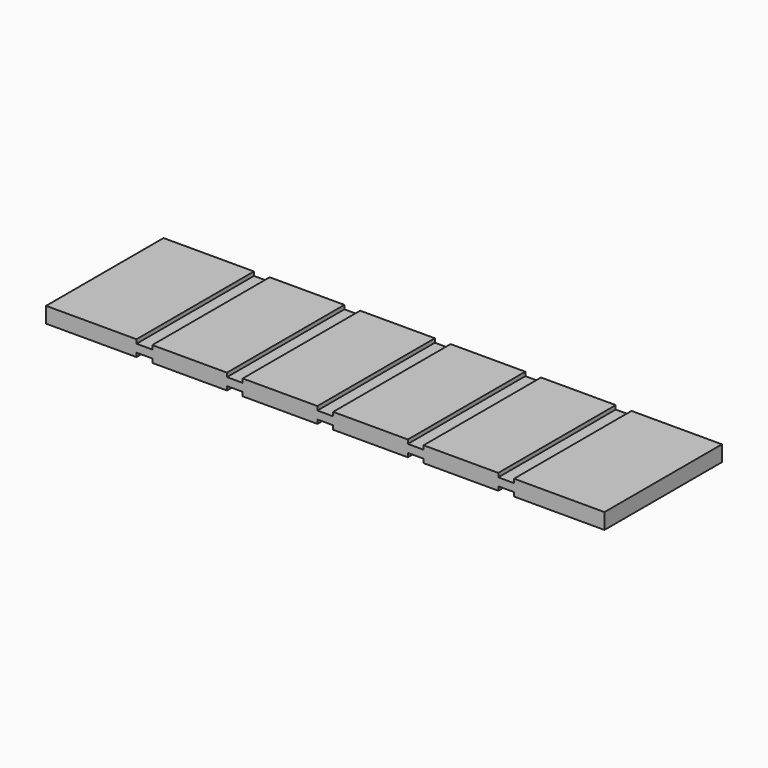
from build123d import *

# Parameters (mm, degrees)
F0_W     = 676.275
F0_H     = 19.05
F2_DEPTH = 177.8
F1_W     = 19.05
F1_H     = 4.7625
F3_DEPTH = 177.801


with BuildPart() as f2:
    # F0 (on Front) → F2 (new body)
    with BuildSketch(Plane.XZ):
        with Locations((338.1375, 9.525)):
            Rectangle(F0_W, F0_H)
    extrude(amount=-F2_DEPTH)

    # F1 (on Front) → F3 (cut, through all)
    with BuildSketch(Plane.XZ):
        with Locations((119.0625, 2.38125)):
            Rectangle(F1_W, F1_H)
        with Locations((119.0625, 16.66875)):
            Rectangle(F1_W, F1_H)
        with Locations((228.6, 2.38125)):
            Rectangle(F1_W, F1_H)
        with Locations((228.6, 16.66875)):
            Rectangle(F1_W, F1_H)
        with Locations((338.1375, 2.38125)):
            Rectangle(F1_W, F1_H)
        with Locations((338.1375, 16.66875)):
            Rectangle(F1_W, F1_H)
        with Locations((447.675, 2.38125)):
            Rectangle(F1_W, F1_H)
        with Locations((447.675, 16.66875)):
            Rectangle(F1_W, F1_H)
        with Locations((557.2125, 2.38125)):
            Rectangle(F1_W, F1_H)
        with Locations((557.2125, 16.66875)):
            Rectangle(F1_W, F1_H)
    extrude(amount=-F3_DEPTH, mode=Mode.SUBTRACT)


solid = f2.part
